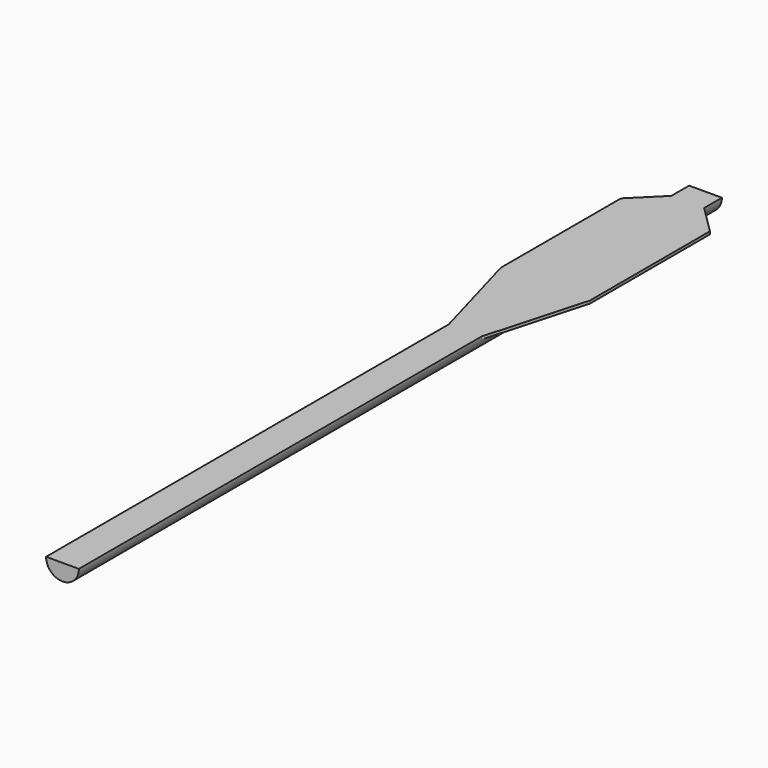
from build123d import *

# Parameters (mm, degrees)
F1_DEPTH      = 144.5
F2_W          = 50
F2_H          = 0.5
F3_DEPTH      = 8
F3_DEPTH_BACK = 8
F4_DEPTH      = 0.5
F5_DEPTH      = 6
F6_DEPTH      = 0.5
F8_DEPTH      = 0.5


with BuildPart() as f1:
    # F0 (on Front) → F1 (new body)
    with BuildSketch(Plane.XZ):
        with BuildLine():
            ThreePointArc((-2.95, 0), (0, -2.95), (2.95, 0))
            Line((2.95, 0), (-2.95, 0))
        make_face()
    extrude(amount=F1_DEPTH)

    # F2 (on Right) → F3 (join, two sides)
    with BuildSketch(Plane.YZ) as f3_sk:
        with Locations((-29, 0.25)):
            Rectangle(F2_W, F2_H)
    extrude(amount=F3_DEPTH)
    extrude(f3_sk.sketch, amount=-F3_DEPTH_BACK)

    # F4 (add): faces of the model
    f4_faces = [f1.faces().sort_by_distance(p)[0] for p in [
        (5.475, -29, 0),
        (-5.475, -29, 0),
    ]]
    extrude(f4_faces, amount=F4_DEPTH)

    # F5 (add): a face of the model
    f5_faces = [f1.faces().sort_by_distance(p)[0] for p in [
        (-2.95, -29, -0.25),
    ]]
    extrude(f5_faces, amount=F5_DEPTH)

    # F6 (cut): a face of the model
    f6_faces = [f1.faces().sort_by_distance(p)[0] for p in [
        (0, -29, 0.5),
    ]]
    extrude(f6_faces, amount=-F6_DEPTH, mode=Mode.SUBTRACT)

    # F7 (on face) → F8 (cut)
    with BuildSketch(Plane.XY):
        Polygon((-8, -9), (-2.95, -4), (-8, -4), align=None)
        Polygon((-2.95, -54), (-8, -36), (-8, -54), align=None)
        Polygon((8, -54), (8, -36), (2.95, -54), align=None)
        Polygon((8, -4), (2.95, -4), (8, -9), align=None)
    extrude(amount=-F8_DEPTH, mode=Mode.SUBTRACT)


solid = f1.part
